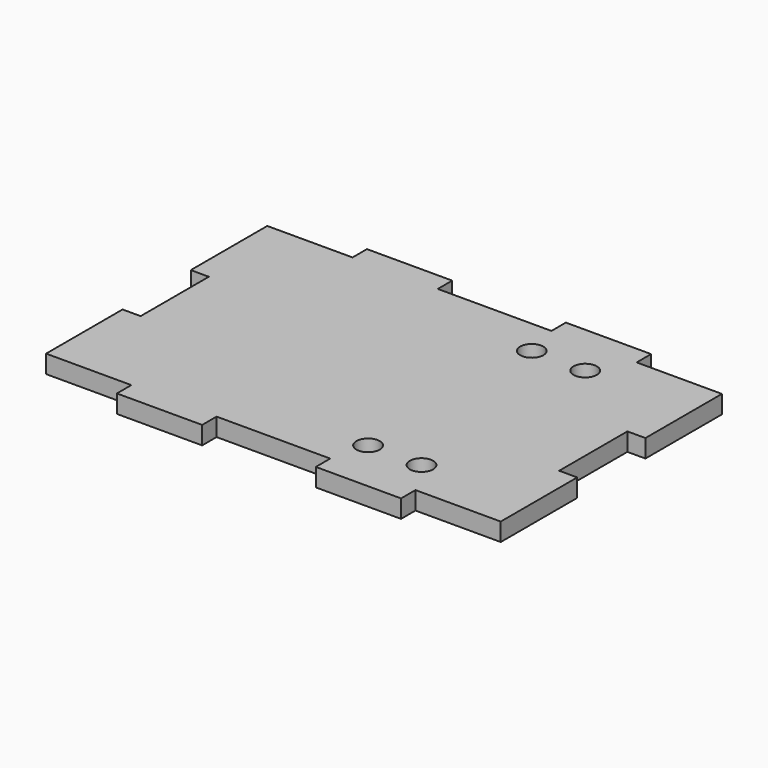
from build123d import *

# Parameters (mm, degrees)
F1_W     = 80
F1_H     = 48.65
F2_DEPTH = 3.175
F3_W     = 15
F3_H     = 3.175
F4_DEPTH = 3.175
F5_W     = 3.175
F5_H     = 15
F6_DEPTH = 3.176
F7_R     = 2.05
F8_DEPTH = 3.176


with BuildPart() as f2:
    # F1 (on Top) → F2 (new body)
    with BuildSketch(Plane.XY):
        Rectangle(F1_W, F1_H)
    extrude(amount=F2_DEPTH)

    # F3 (on face) → F4 (join, through all)
    with BuildSketch(Plane.XY.offset(3.175)):
        with Locations((-17.5, -25.9125)):
            Rectangle(F3_W, F3_H)
        with Locations((17.5, -25.9125)):
            Rectangle(F3_W, F3_H)
        with Locations((-17.5, 25.9125)):
            Rectangle(F3_W, F3_H)
        with Locations((17.5, 25.9125)):
            Rectangle(F3_W, F3_H)
    extrude(amount=-F4_DEPTH)

    # F5 (on face) → F6 (cut, through all)
    with BuildSketch(Plane.XY.offset(3.175)):
        with Locations((38.4125, 0)):
            Rectangle(F5_W, F5_H)
        with Locations((-38.4125, 0)):
            Rectangle(F5_W, F5_H)
    extrude(amount=-F6_DEPTH, mode=Mode.SUBTRACT)

    # F7 (on face) → F8 (cut, through all)
    with BuildSketch(Plane.XY.offset(3.175)):
        with Locations((11.6, 18)):
            Circle(F7_R)
        with Locations((21, 18)):
            Circle(F7_R)
        with Locations((21, -18)):
            Circle(F7_R)
        with Locations((11.6, -18)):
            Circle(F7_R)
    extrude(amount=-F8_DEPTH, mode=Mode.SUBTRACT)


solid = f2.part
